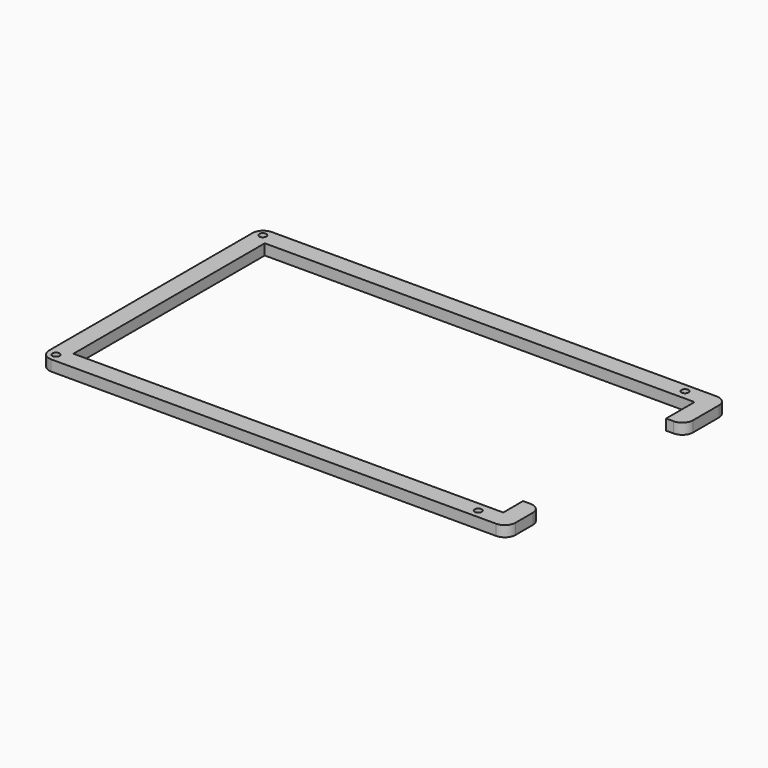
from build123d import *

# Parameters (mm, degrees)
F1_DEPTH = 5
F2_D     = 3.3
F3_R     = 5


with BuildPart() as f1:
    # F0 (on Top) → F1 (new body)
    with BuildSketch(Plane.XY):
        Polygon((115.4999993443, 64.5), (103, 64.5), (-101, 64.5), (-101, -63.5), (103, -63.5), (115.4999993443, -63.5), (115.4999993443, -43.5), (106.9999993443, -43.5), (106.9999993443, -55), (103, -55), (-92.5, -55), (-92.5, 56), (103, 56), (106.9999993443, 56), (106.9999993443, 39.5), (115.4999993443, 39.5), align=None)
    extrude(amount=F1_DEPTH)

    # F2 (through all)
    with Locations(Plane(origin=(0, 0, 0), x_dir=(1, 0, 0), z_dir=(0, 0, -1))):
        with Locations((-97, -60.5), (99, -60.5), (99, 59.5), (-97, 59.5)):
            Hole(F2_D / 2)

    # F3
    f3_edges = [f1.edges().sort_by_distance(p)[0] for p in [
        (115.499999, 39.5, 2.5),
        (115.499999, 64.5, 2.5),
        (-101, 64.5, 2.5),
        (-101, -63.5, 2.5),
        (115.499999, -63.5, 2.5),
        (115.499999, -43.5, 2.5),
    ]]
    fillet(f3_edges, radius=F3_R)


solid = f1.part
